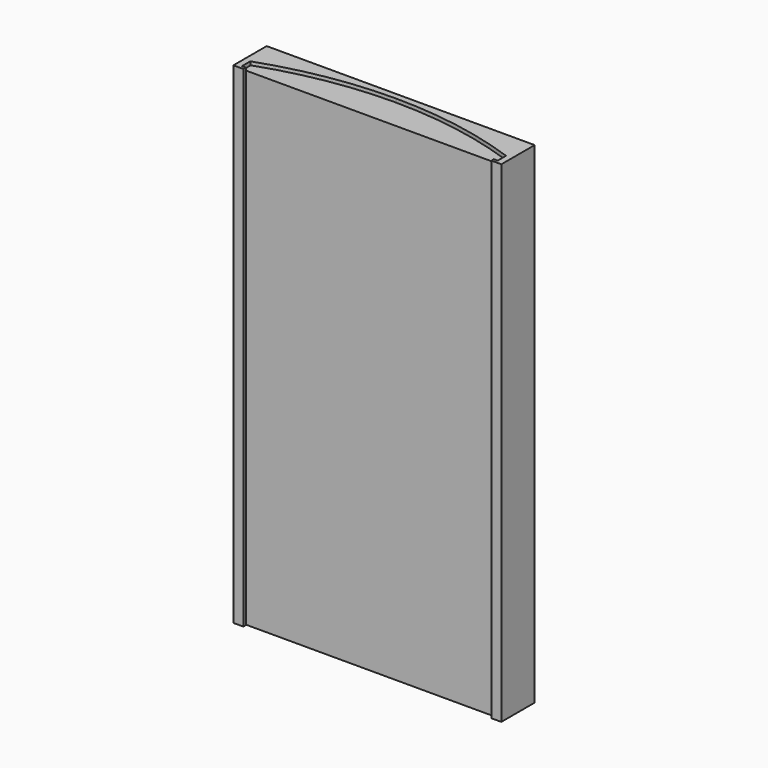
from build123d import *

# Parameters (mm, degrees)
F1_DEPTH = 159.3
F3_DEPTH = 160.3


with BuildPart() as f1:
    # F0 (on Top) → F1 (new body)
    with BuildSketch(Plane.XY):
        with BuildLine():
            Line((0, 3), (0, 0))
            Line((0, 0), (41.5, 0))
            Line((41.5, 0), (83, 0))
            Line((83, 0), (83, 3))
            ThreePointArc((83, 3), (62.551485, 8.312198), (41.5, 10.1))
            ThreePointArc((41.5, 10.1), (20.448515, 8.312198), (0, 3))
        make_face()
    extrude(amount=F1_DEPTH)


with BuildPart() as f3:
    # F0 (on Top) → F3 (new body, through all)
    with BuildSketch(Plane.XY):
        with BuildLine():
            ThreePointArc((-0.25, 3.176822), (20.31913, 8.543663), (41.5, 10.35))
            ThreePointArc((41.5, 10.35), (62.68087, 8.543663), (83.25, 3.176822))
            Line((83.25, 3.176822), (83.25, 0))
            Line((83.25, 0), (83.25, -0.25))
            Line((83.25, -0.25), (82, -0.25))
            Line((82, -0.25), (82, -1.25))
            Line((82, -1.25), (85.25, -1.25))
            Line((85.25, -1.25), (85.25, 12.35))
            Line((85.25, 12.35), (41.5, 12.35))
            Line((41.5, 12.35), (-2.25, 12.35))
            Line((-2.25, 12.35), (-2.25, -1.25))
            Line((-2.25, -1.25), (1, -1.25))
            Line((1, -1.25), (1, -0.25))
            Line((1, -0.25), (-0.25, -0.25))
            Line((-0.25, -0.25), (-0.25, 0))
            Line((-0.25, 0), (-0.25, 3.176822))
        make_face()
    extrude(amount=F3_DEPTH)


solid = Compound([f1.part, f3.part])
